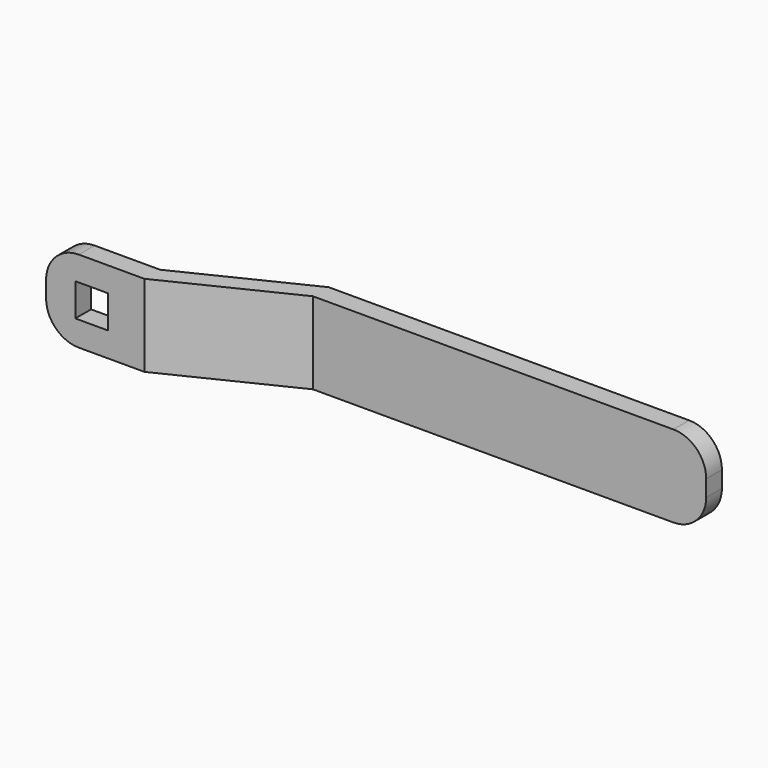
from build123d import *

# Parameters (mm, degrees)
F1_DEPTH = 12.5
F2_R     = 10
F3_R     = 10
F4_W     = 10
F4_H     = 10
F5_DEPTH = 6


with BuildPart() as f1:
    # F0 (on Top) → F1 (new body, symmetric)
    with BuildSketch(Plane.XY):
        Polygon((16.076079, 2.923578), (-13.923921, 2.923578), (-13.923921, -3.076422), (16.076079, -3.076422), (53.058334, 14.969733), (173.058334, 14.969733), (173.058334, 20.969733), (53.058334, 20.969733), align=None)
    extrude(amount=F1_DEPTH, both=True)

    # F2
    f2_edges = [f1.edges().sort_by_distance(p)[0] for p in [
        (-13.923921, -0.076422, 12.5),
    ]]
    fillet(f2_edges, radius=F2_R)

    # F3
    f3_edges = [f1.edges().sort_by_distance(p)[0] for p in [
        (-13.923921, -0.076422, -12.5),
        (173.058334, 17.969733, 12.5),
        (173.058334, 17.969733, -12.5),
    ]]
    fillet(f3_edges, radius=F3_R)

    # F4 (on face) → F5 (cut, through all)
    with BuildSketch(Plane(origin=(0, 2.923578, 0), x_dir=(-1, 0, 0), z_dir=(0, 1, 0))):
        Rectangle(F4_W, F4_H)
    extrude(amount=-F5_DEPTH, mode=Mode.SUBTRACT)


solid = f1.part
